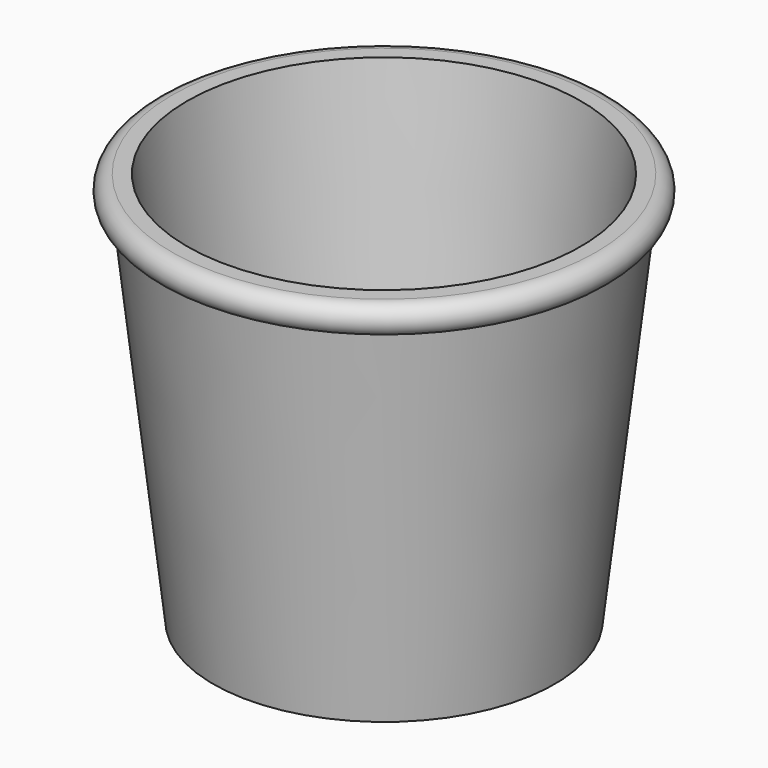
from build123d import *

# Parameters (mm, degrees)
F2_R     = 27.305869
F3_DEPTH = 5.842


with BuildPart() as f1:
    # F0 (on Front) → F1 (revolve)
    with BuildSketch(Plane.XZ):
        with BuildLine():
            ThreePointArc((-40.593311, 44.711471), (-43.387778, 41.917004), (-40.593311, 39.122537))
            Line((-40.593311, 39.122537), (-32.651141, -30.59206))
            Line((-32.651141, -30.59206), (0, -30.59206))
            Line((0, -30.59206), (0, -26.768051))
            Line((0, -26.768051), (-29.121285, -26.768051))
            Line((-29.121285, -26.768051), (-37.651766, 44.711471))
            Line((-37.651766, 44.711471), (-40.593311, 44.711471))
        make_face()
    revolve(axis=Axis((0, 0, -28.680055), (0, 0, 1)))

    # F2 (on face) → F3 (cut)
    with BuildSketch(Plane(origin=(0, 0, -30.59206), x_dir=(1, 0, 0), z_dir=(0, 0, -1))):
        Circle(F2_R)
    extrude(amount=-F3_DEPTH, mode=Mode.SUBTRACT)


solid = f1.part
